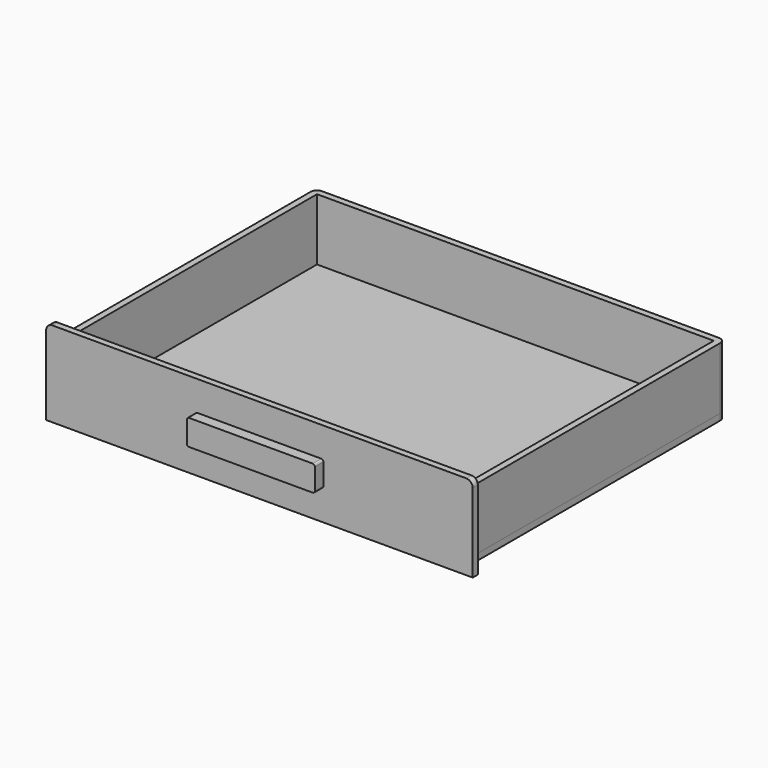
from build123d import *

# Parameters (mm, degrees)
F1_DEPTH      = 14.5
F1_DEPTH_BACK = 14.5
F4_DEPTH      = 3
F7_DEPTH      = 3
F9_DEPTH      = 5


with BuildPart() as f1:
    # F0 (on Top) → F1 (new body, two sides)
    with BuildSketch(Plane.XY) as f1_sk:
        with BuildLine():
            Line((93, 75), (-93, 75))
            ThreePointArc((-93, 75), (-95.12132, 74.12132), (-96, 72))
            Line((-96, 72), (-96, -75))
            Line((-96, -75), (-93, -75))
            Line((-93, -75), (-93, 72))
            Line((-93, 72), (93, 72))
            Line((93, 72), (93, -75))
            Line((93, -75), (96, -75))
            Line((96, -75), (96, 72))
            ThreePointArc((96, 72), (95.12132, 74.12132), (93, 75))
        make_face()
    extrude(amount=F1_DEPTH)
    extrude(f1_sk.sketch, amount=-F1_DEPTH_BACK)


with BuildPart() as f4:
    # F3 (on offset) → F4 (new body)
    with BuildSketch(Plane.XZ.offset(75)):
        with BuildLine():
            Line((97, 20), (-97, 20))
            ThreePointArc((-97, 20), (-99.12132, 19.12132), (-100, 17))
            Line((-100, 17), (-100, -20))
            Line((-100, -20), (100, -20))
            Line((100, -20), (100, 17))
            ThreePointArc((100, 17), (99.12132, 19.12132), (97, 20))
        make_face()
    extrude(amount=F4_DEPTH)


with BuildPart() as f7:
    # F6 (on offset) → F7 (new body)
    with BuildSketch(Plane.XY.offset(-14.5)):
        with BuildLine():
            ThreePointArc((96, 72), (95.12132, 74.12132), (93, 75))
            Line((93, 75), (-93, 75))
            ThreePointArc((-93, 75), (-95.12132, 74.12132), (-96, 72))
            Line((-96, 72), (-96, -75))
            Line((-96, -75), (96, -75))
            Line((96, -75), (96, 72))
        make_face()
    extrude(amount=-F7_DEPTH)


with BuildPart() as f9:
    # F8 (on face) → F9 (new body)
    with BuildSketch(Plane.XZ.offset(78)):
        with BuildLine():
            ThreePointArc((30, 5), (29.707107, 5.707107), (29, 6))
            Line((29, 6), (-29, 6))
            ThreePointArc((-29, 6), (-29.707107, 5.707107), (-30, 5))
            Line((-30, 5), (-30, -5))
            ThreePointArc((-30, -5), (-29.707107, -5.707107), (-29, -6))
            Line((-29, -6), (29, -6))
            ThreePointArc((29, -6), (29.707107, -5.707107), (30, -5))
            Line((30, -5), (30, 5))
        make_face()
    extrude(amount=F9_DEPTH)


solid = Compound([f1.part, f4.part, f7.part, f9.part])
